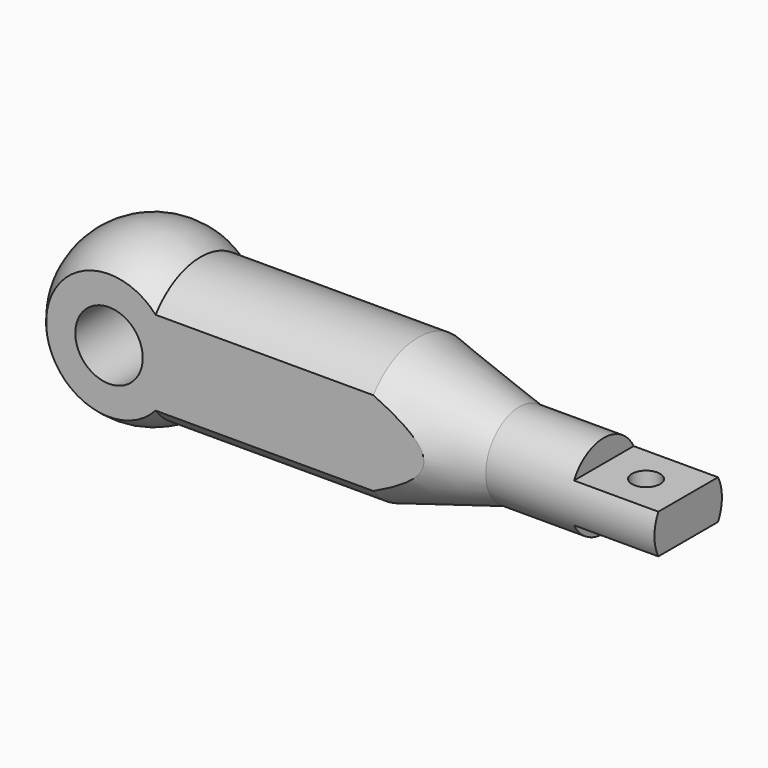
from build123d import *

# Parameters (mm, degrees)
F2_W          = 15
F2_H          = 4
F3_DEPTH      = 15.001
F3_DEPTH_BACK = 15.001
F5_DEPTH      = 110.001
F6_R          = 6
F7_DEPTH      = 20.001
F8_R          = 2.5
F9_DEPTH      = 18.501


with BuildPart() as f1:
    # F0 (on Front) → F1 (revolve)
    with BuildSketch(Plane.XZ):
        with BuildLine():
            ThreePointArc((8.2915619759, 12.5), (-7.0931858273, 13.2169101843), (-15, 0))
            Line((-15, 0), (95, 0))
            Line((95, 0), (95, 7.5))
            Line((95, 7.5), (65, 7.5))
            Line((65, 7.5), (47, 12.5))
            Line((47, 12.5), (8.2915619759, 12.5))
        make_face()
    revolve(axis=Axis((40, 0, 0), (-1, 0, 0)))

    # F2 (on Front) → F3 (cut, two sides)
    with BuildSketch(Plane.XZ) as f3_sk:
        with Locations((87.5, 5.5)):
            Rectangle(F2_W, F2_H)
        with Locations((87.5, -5.5)):
            Rectangle(F2_W, F2_H)
    extrude(amount=-F3_DEPTH, mode=Mode.SUBTRACT)
    extrude(f3_sk.sketch, amount=F3_DEPTH_BACK, mode=Mode.SUBTRACT)

    # F4 (on face) → F5 (cut, through all)
    with BuildSketch(Plane.YZ.offset(95)):
        with BuildLine():
            Line((-10, -11.1803398875), (-10, 11.1803398875))
            ThreePointArc((-10, 11.1803398875), (-15, 0), (-10, -11.1803398875))
        make_face()
        with BuildLine():
            ThreePointArc((15, 0), (13.6930639376, 6.123724357), (10, 11.1803398875))
            Line((10, 11.1803398875), (10, -11.1803398875))
            ThreePointArc((10, -11.1803398875), (13.6930639376, -6.123724357), (15, 0))
        make_face()
    extrude(amount=-F5_DEPTH, mode=Mode.SUBTRACT)

    # F6 (on face) → F7 (cut, through all)
    with BuildSketch(Plane.XZ.offset(10)):
        Circle(F6_R)
    extrude(amount=-F7_DEPTH, mode=Mode.SUBTRACT)

    # F8 (on face) → F9 (cut, through all)
    with BuildSketch(Plane.XY.offset(3.5)):
        with Locations((87.5, 0)):
            Circle(F8_R)
    extrude(amount=-F9_DEPTH, mode=Mode.SUBTRACT)


solid = f1.part
